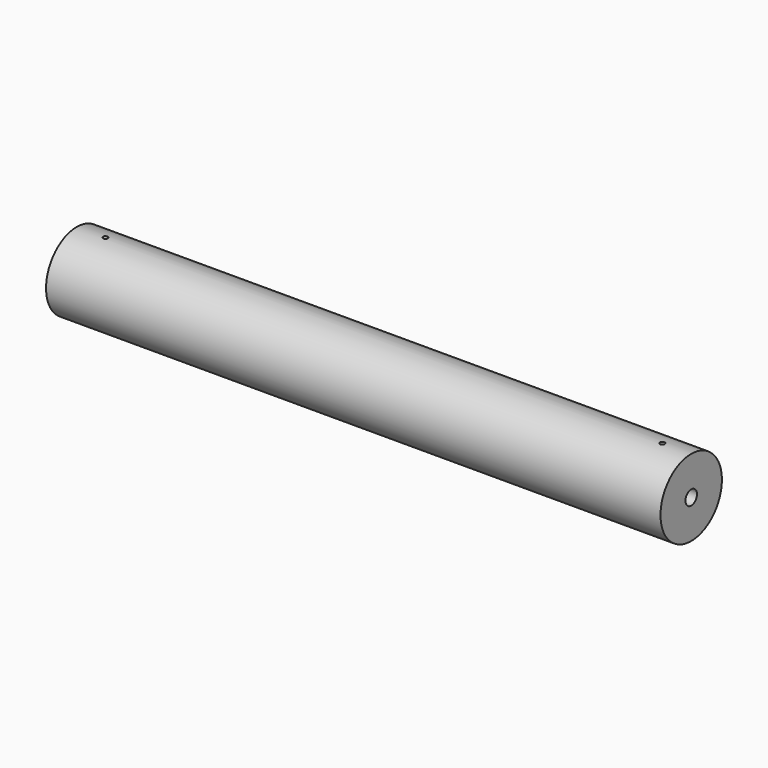
from build123d import *

# Parameters (mm, degrees)
F0_R     = 25.4
F1_DEPTH = 406.4
F3_D     = 9.525
F3_DEPTH = 38.1
F3_TIP   = 2.8615986981
F5_D     = 9.525
F5_DEPTH = 38.1
F5_TIP   = 2.8615986981
F6_R     = 1.5875
F7_DEPTH = 25.4
F9_DEPTH = 31.75


with BuildPart() as f1:
    # F0 (on Right) → F1 (new body)
    with BuildSketch(Plane.YZ):
        Circle(F0_R)
    extrude(amount=F1_DEPTH)

    # F3
    with Locations(Plane.YZ.offset(406.4)):
        with Locations((0, 0)):
            Hole(F3_D / 2, depth=F3_DEPTH)
            with Locations((0, 0, -(F3_DEPTH + F3_TIP / 2))):  # 118° drill point
                Cone(0, F3_D / 2, F3_TIP, mode=Mode.SUBTRACT)

    # F5
    with Locations(Plane(origin=(0, 0, 0), x_dir=(0, -1, 0), z_dir=(-1, 0, 0))):
        with Locations((0, 0)):
            Hole(F5_D / 2, depth=F5_DEPTH)
            with Locations((0, 0, -(F5_DEPTH + F5_TIP / 2))):  # 118° drill point
                Cone(0, F5_D / 2, F5_TIP, mode=Mode.SUBTRACT)


with BuildPart() as f7:
    # F6 (on Top) → F7 (new body, symmetric)
    with BuildSketch(Plane.XY):
        with Locations((19.05, 0)):
            Circle(F6_R)
    extrude(amount=F7_DEPTH, both=True)


with BuildPart() as f1_1:
    add(f1.part)

    # F8: cut F7
    add(f7.part, mode=Mode.SUBTRACT)


with BuildPart() as f9:
    # F6 (on Top) → F9 (new body, symmetric)
    with BuildSketch(Plane.XY):
        with Locations((387.35, 0)):
            Circle(F6_R)
    extrude(amount=F9_DEPTH, both=True)


with BuildPart() as f1_2:
    add(f1_1.part)

    # F10: cut F9
    add(f9.part, mode=Mode.SUBTRACT)


solid = f1_2.part
